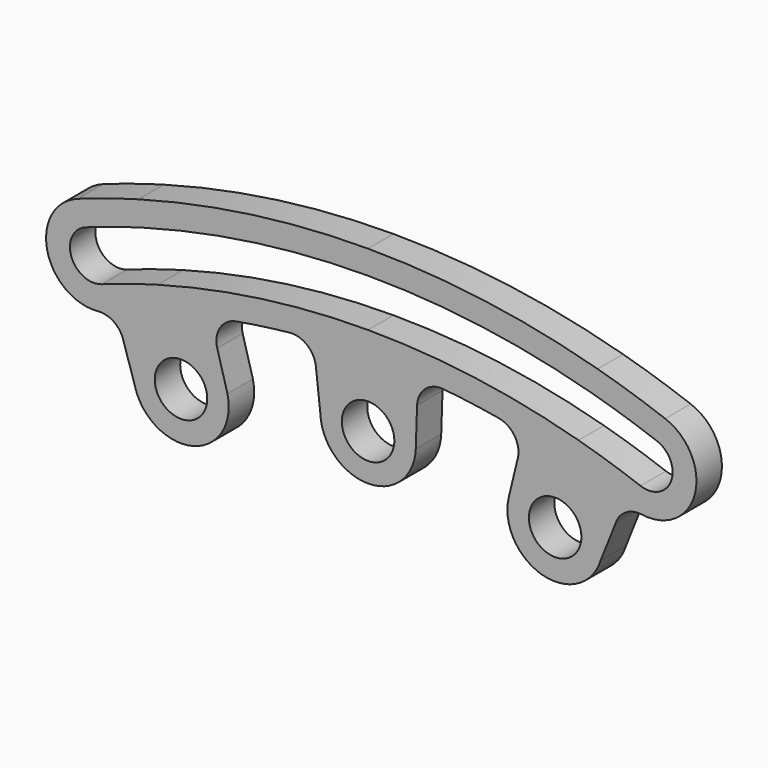
from build123d import *

# Parameters (mm, degrees)
F1_DEPTH = 4
F3_D     = 6.6
F4_R     = 3


with BuildPart() as f1:
    # F0 (on Front) → F1 (new body)
    with BuildSketch(Plane.XZ):
        with BuildLine():
            Line((-33.4687721395, 93.1710324697), (-32.4545669232, 90.3476678494))
            ThreePointArc((-32.4545669232, 90.3476678494), (-32.0483511021, 90.4925587639), (-31.6414884556, 90.6356232853))
            ThreePointArc((-31.6414884556, 90.6356232853), (-28.6634875045, 91.6209827718), (-25.6548841035, 92.508523508))
            Line((-25.6548841035, 92.508523508), (-26.4565992317, 95.3994148677))
            ThreePointArc((-26.4565992318, 95.3994148677), (-29.9833946631, 94.350389742), (-33.4687721395, 93.1710324697))
        make_face()
        with BuildLine():
            ThreePointArc((0, 99), (-13.3502420971, 98.0957238413), (-26.4565992318, 95.3994148677))
            Line((-26.4565992317, 95.3994148677), (-25.6548841035, 92.508523508))
            ThreePointArc((-25.6548841035, 92.508523508), (-22.7517340683, 93.2649912716), (-19.8263642502, 93.9303746432))
            ThreePointArc((-19.8263642502, 93.9303746432), (-13.3908139049, 95.0614859076), (-6.8932268351, 95.7521980103))
            ThreePointArc((-6.8932268351, 95.7521980103), (-3.4488397334, 95.9380295008), (0, 96))
            Line((0, 96), (0, 99))
        make_face()
        with BuildLine():
            ThreePointArc((-19.8263642502, 93.9303746432), (-22.7517340683, 93.2649912716), (-25.6548841035, 92.508523508))
            Line((-25.6548841035, 92.508523508), (-23.5169770949, 84.7994798824))
            ThreePointArc((-23.5169770949, 84.7994798824), (-20.6124161637, 85.5519041278), (-17.6838927225, 86.2048718935))
            Line((-17.6838927225, 86.2048718935), (-19.8263642502, 93.9303746432))
        make_face()
        with BuildLine():
            ThreePointArc((-25.6548841035, 92.508523508), (-28.6634875045, 91.6209827718), (-31.6414884556, 90.6356232853))
            Line((-31.6414884556, 90.6356232853), (-29.240736677, 82.9998754131))
            ThreePointArc((-29.240736677, 82.9998754131), (-26.3941988829, 83.9484738714), (-23.5169770949, 84.7994798824))
            Line((-23.5169770949, 84.7994798824), (-25.6548841035, 92.508523508))
        make_face()
        with BuildLine():
            ThreePointArc((-23.5169770949, 84.7994798824), (-26.3941988829, 83.9484738714), (-29.240736677, 82.9998754131))
            ThreePointArc((-29.240736677, 82.9998754131), (-26.3820624935, 79.5277358011), (-21.9135468384, 79.0176971631))
            Line((-21.9135468384, 79.0176971631), (-23.5169770949, 84.7994798824))
        make_face()
        with BuildLine():
            Line((-23.5169770949, 84.7994798824), (-21.9135468384, 79.0176971631))
            ThreePointArc((-21.9135468384, 79.0176971631), (-18.3459706544, 81.7563413064), (-17.6838927225, 86.2048718935))
            ThreePointArc((-17.6838927225, 86.2048718935), (-20.6124161637, 85.5519041278), (-23.5169770949, 84.7994798824))
        make_face()
        with BuildLine():
            Line((0, 88), (0, 96))
            ThreePointArc((0, 96), (-3.4488397334, 95.9380295008), (-6.8932268351, 95.7521980103))
            Line((-6.8932268351, 95.7521980103), (-5.9965124161, 87.7954545455))
            ThreePointArc((-5.9965124161, 87.7954545455), (-3, 87.9488487702), (0, 88))
        make_face()
        with BuildLine():
            ThreePointArc((6.2693850791, 95.7950667348), (3.1363668039, 95.9487530053), (0, 96))
            Line((0, 96), (0, 88))
            ThreePointArc((0, 88), (3, 87.9488487702), (5.9965124161, 87.7954545455))
            Line((5.9965124161, 87.7954545455), (6.2693850791, 95.7950667348))
        make_face()
        with BuildLine():
            Line((0, 88), (0, 82))
            ThreePointArc((0, 82), (4.1696958686, 83.685647631), (5.9965124161, 87.7954545455))
            ThreePointArc((5.9965124161, 87.7954545455), (3, 87.9488487702), (0, 88))
        make_face()
        with BuildLine():
            ThreePointArc((-5.9965124161, 87.7954545455), (-4.1696958686, 83.685647631), (0, 82))
            Line((0, 82), (0, 88))
            ThreePointArc((0, 88), (-3, 87.9488487702), (-5.9965124161, 87.7954545455))
        make_face()
        with BuildLine():
            ThreePointArc((26.4565992318, 95.3994148677), (13.3502420971, 98.0957238413), (0, 99))
            Line((0, 99), (0, 96))
            ThreePointArc((0, 96), (3.1363668039, 95.9487530053), (6.2693850791, 95.7950667348))
            ThreePointArc((6.2693850791, 95.7950667348), (12.9456893063, 95.1231261491), (19.5587476854, 93.9864638604))
            ThreePointArc((19.5587476854, 93.9864638604), (22.6188903752, 93.2972979147), (25.6548841035, 92.508523508))
            Line((25.6548841035, 92.508523508), (26.4565992317, 95.3994148677))
        make_face()
        with BuildLine():
            Line((-35.4971825722, 98.8177617103), (-36.5113877886, 101.6411263306))
            ThreePointArc((-36.5113877886, 101.6411263306), (-40.1297065965, 93.9659866573), (-32.4545669232, 90.3476678494))
            Line((-32.4545669232, 90.3476678494), (-33.4687721395, 93.1710324697))
            ThreePointArc((-33.4687721395, 93.1710324697), (-37.3063419762, 94.9801918737), (-35.4971825722, 98.8177617103))
        make_face()
        with BuildLine():
            ThreePointArc((-28.8617446165, 104.0720889465), (-32.7091578143, 102.9276979004), (-36.5113877886, 101.6411263306))
            Line((-36.5113877886, 101.6411263306), (-35.4971825722, 98.8177617103))
            ThreePointArc((-35.4971825722, 98.8177617103), (-31.8005700973, 100.068595181), (-28.0600294882, 101.1811975869))
            Line((-28.0600294882, 101.1811975869), (-28.8617446165, 104.0720889465))
        make_face()
        with BuildLine():
            ThreePointArc((0, 108), (-14.5639004696, 107.0135169178), (-28.8617446165, 104.0720889465))
            Line((-28.8617446165, 104.0720889465), (-28.0600294882, 101.1811975869))
            ThreePointArc((-28.0600294882, 101.1811975869), (-14.1593476787, 104.0409192256), (0, 105))
            Line((0, 105), (0, 108))
        make_face()
        with BuildLine():
            ThreePointArc((28.8617446165, 104.0720889465), (14.5639004696, 107.0135169178), (0, 108))
            Line((0, 108), (0, 105))
            ThreePointArc((0, 105), (14.1593476787, 104.0409192256), (28.0600294882, 101.1811975869))
            Line((28.0600294882, 101.1811975869), (28.8617446165, 104.0720889465))
        make_face()
        with BuildLine():
            ThreePointArc((37.3643109139, 101.3306877009), (33.1413854263, 102.789340751), (28.8617446165, 104.0720889465))
            Line((28.8617446165, 104.0720889465), (28.0600294882, 101.1811975869))
            ThreePointArc((28.0600294882, 101.1811975869), (32.2207913867, 99.9340812857), (36.3264133885, 98.5159463758))
            Line((36.3264133885, 98.5159463758), (37.3643109139, 101.3306877009))
        make_face()
        with BuildLine():
            ThreePointArc((33.2127208123, 90.0717224008), (40.9179985132, 93.62541), (37.3643109139, 101.3306877009))
            Line((37.3643109139, 101.3306877009), (36.3264133885, 98.5159463758))
            ThreePointArc((36.3264133885, 98.5159463758), (38.1032571881, 94.6633075254), (34.2506183377, 92.8864637258))
            Line((34.2506183377, 92.8864637258), (33.2127208123, 90.0717224008))
        make_face()
        with BuildLine():
            ThreePointArc((32.2010471833, 90.4383356785), (32.7073976674, 90.2564465167), (33.2127208123, 90.0717224008))
            Line((33.2127208123, 90.0717224008), (34.2506183377, 92.8864637258))
            ThreePointArc((34.2506183377, 92.8864637258), (30.3796033074, 94.2235623551), (26.4565992318, 95.3994148677))
            Line((26.4565992317, 95.3994148677), (25.6548841035, 92.508523508))
            ThreePointArc((25.6548841035, 92.508523508), (28.9464784677, 91.5319691928), (32.2010471833, 90.4383356785))
        make_face()
        with BuildLine():
            ThreePointArc((23.5169770949, 84.7994798824), (26.3941988829, 83.9484738714), (29.240736677, 82.9998754131))
            Line((29.240736677, 82.9998754131), (32.2010471833, 90.4383356785))
            ThreePointArc((32.2010471833, 90.4383356785), (28.9464784677, 91.5319691928), (25.6548841035, 92.508523508))
            Line((25.6548841035, 92.508523508), (23.5169770949, 84.7994798824))
        make_face()
        with BuildLine():
            ThreePointArc((17.6838927225, 86.2048718935), (20.6124161637, 85.5519041278), (23.5169770949, 84.7994798824))
            Line((23.5169770949, 84.7994798824), (25.6548841035, 92.508523508))
            ThreePointArc((25.6548841035, 92.508523508), (22.6188903752, 93.2972979147), (19.5587476854, 93.9864638604))
            Line((19.5587476854, 93.9864638604), (17.6838927225, 86.2048718935))
        make_face()
        with BuildLine():
            ThreePointArc((17.6838927225, 86.2048718935), (18.3459706544, 81.7563413064), (21.9135468384, 79.0176971631))
            Line((21.9135468384, 79.0176971631), (23.5169770949, 84.7994798824))
            ThreePointArc((23.5169770949, 84.7994798824), (20.6124161637, 85.5519041278), (17.6838927225, 86.2048718935))
        make_face()
        with BuildLine():
            Line((23.5169770949, 84.7994798824), (21.9135468384, 79.0176971631))
            ThreePointArc((21.9135468384, 79.0176971631), (26.3820624935, 79.5277358011), (29.240736677, 82.9998754131))
            ThreePointArc((29.240736677, 82.9998754131), (26.3941988829, 83.9484738714), (23.5169770949, 84.7994798824))
        make_face()
    extrude(amount=F1_DEPTH)

    # F3 (through all)
    with Locations(Plane.XZ.offset(4)):
        with Locations((-23.5169770949, 84.7994798824), (0, 87.7954545455), (23.5169770949, 84.7994798824)):
            Hole(F3_D / 2)

    # F4
    f4_edges = [f1.edges().sort_by_distance(p)[0] for p in [
        (-19.826364, -2, 93.930375),
        (6.269385, -2, 95.795067),
        (-31.641488, -2, 90.635623),
        (-6.893227, -2, 95.752198),
        (19.558748, -2, 93.986464),
        (32.201047, -2, 90.438336),
    ]]
    fillet(f4_edges, radius=F4_R)


solid = f1.part
